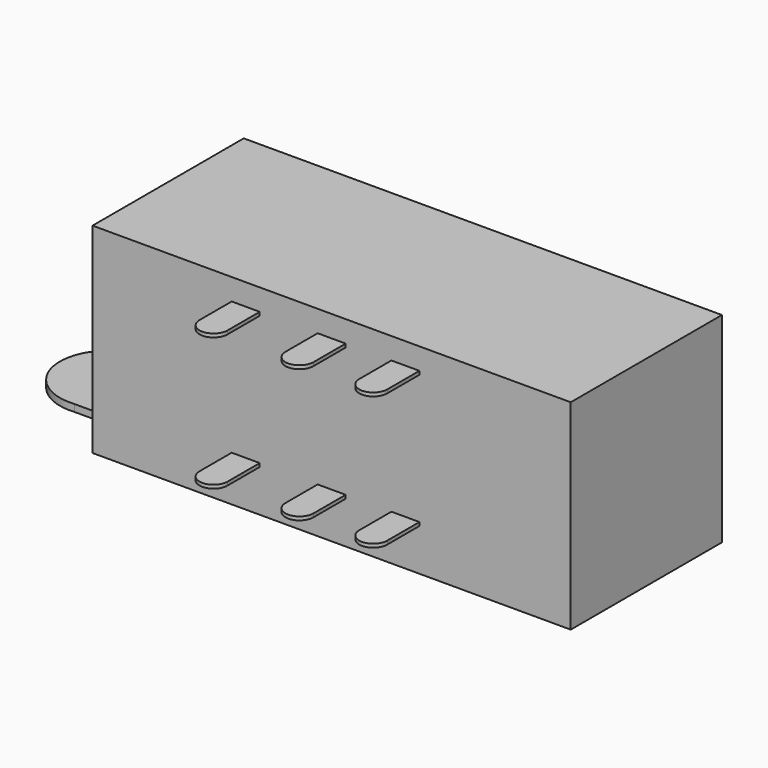
from build123d import *

# Parameters (mm, degrees)
F1_DEPTH = 34.1249
F5_DEPTH = 0.5
F7_DEPTH = 0.5
F9_DEPTH = 1


with BuildPart() as f1:
    # F0 (on Right) → F1 (new body, symmetric)
    with BuildSketch(Plane.YZ):
        Polygon((-13.4874, 0), (0, 0), (13.4874, 0), (13.4874, 28.575), (0, 28.575), (-13.4874, 28.575), align=None)
    extrude(amount=F1_DEPTH, both=True)

    # F4 (on offset) → F5 (join)
    with BuildSketch(Plane.XY.offset(6)):
        with BuildLine():
            ThreePointArc((-2, -19.22551), (0, -21.22551), (2, -19.22551))
            ThreePointArc((2, -19.22551), (0, -17.22551), (-2, -19.22551))
        make_face()
        with BuildLine():
            ThreePointArc((-2, -19.22551), (0, -17.22551), (2, -19.22551))
            Line((2, -19.22551), (2, 0))
            Line((2, 0), (-2, 0))
            Line((-2, 0), (-2, -19.22551))
        make_face()
        with BuildLine():
            ThreePointArc((-14.265118, -19.22551), (-12.265118, -21.22551), (-10.265118, -19.22551))
            ThreePointArc((-10.265118, -19.22551), (-12.265118, -17.22551), (-14.265118, -19.22551))
        make_face()
        with BuildLine():
            ThreePointArc((-14.265118, -19.22551), (-12.265118, -17.22551), (-10.265118, -19.22551))
            Line((-10.265118, -19.22551), (-10.265118, 0))
            Line((-10.265118, 0), (-14.265118, 0))
            Line((-14.265118, 0), (-14.265118, -19.22551))
        make_face()
        with BuildLine():
            ThreePointArc((8.530043, -19.22551), (10.530043, -21.22551), (12.530043, -19.22551))
            ThreePointArc((12.530043, -19.22551), (10.530043, -17.22551), (8.530043, -19.22551))
        make_face()
        with BuildLine():
            ThreePointArc((8.530043, -19.22551), (10.530043, -17.22551), (12.530043, -19.22551))
            Line((12.530043, -19.22551), (12.530043, 0))
            Line((12.530043, 0), (8.530043, 0))
            Line((8.530043, 0), (8.530043, -19.22551))
        make_face()
    extrude(amount=F5_DEPTH)

    # F6 (on offset) → F7 (join)
    with BuildSketch(Plane.XY.offset(25)):
        with BuildLine():
            ThreePointArc((8.530043, -19.22551), (10.530043, -21.22551), (12.530043, -19.22551))
            Line((12.530043, -19.22551), (12.530043, -13.4874))
            Line((12.530043, -13.4874), (8.530043, -13.4874))
            Line((8.530043, -13.4874), (8.530043, -19.22551))
        make_face()
        with BuildLine():
            ThreePointArc((-2, -19.22551), (0, -21.22551), (2, -19.22551))
            Line((2, -19.22551), (2, -13.4874))
            Line((2, -13.4874), (-2, -13.4874))
            Line((-2, -13.4874), (-2, -19.22551))
        make_face()
        with BuildLine():
            ThreePointArc((-14.265118, -19.22551), (-12.265118, -21.22551), (-10.265118, -19.22551))
            Line((-10.265118, -19.22551), (-10.265118, -13.4874))
            Line((-10.265118, -13.4874), (-14.265118, -13.4874))
            Line((-14.265118, -13.4874), (-14.265118, -19.22551))
        make_face()
    extrude(amount=F7_DEPTH)

    # F8 (on Top) → F9 (join)
    with BuildSketch(Plane.XY):
        Polygon((-29.149349, 7.008), (-34.1249, 7.008), (-34.1249, -7.009424), (-28.291495, -7.009424), align=None)
        with BuildLine():
            Line((-34.1249, -7.009424), (-34.1249, 7.008))
            Line((-34.1249, 7.008), (-41.854384, 7.008))
            ThreePointArc((-41.854384, 7.008), (-37.319332, 4.732924), (-35.491192, 0))
            ThreePointArc((-35.491192, 0), (-37.324363, -4.738458), (-41.869275, -7.009424))
            Line((-41.869275, -7.009424), (-34.1249, -7.009424))
        make_face()
        with BuildLine():
            ThreePointArc((-35.491192, 0), (-37.319332, 4.732924), (-41.854384, 7.008))
            ThreePointArc((-41.854384, 7.008), (-49.57253, 0.007479), (-41.869275, -7.009424))
            ThreePointArc((-41.869275, -7.009424), (-37.324363, -4.738458), (-35.491192, 0))
        make_face()
    extrude(amount=F9_DEPTH)


solid = f1.part
